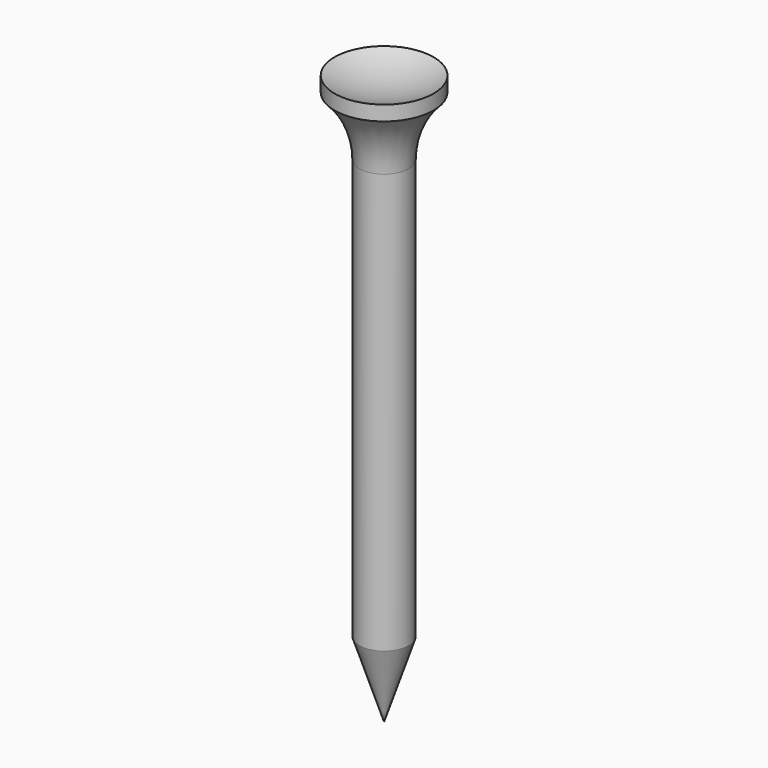
from build123d import *


with BuildPart() as f1:
    # F0 (on Front) → F1 (revolve)
    with BuildSketch(Plane.XZ):
        with BuildLine():
            Line((0, 71.639064), (0, 71.12))
            Line((0, 71.12), (6.35, 71.12))
            Line((6.35, 71.12), (6.35, 73.025))
            ThreePointArc((6.35, 73.025), (3.249743, 71.989579), (0, 71.639064))
        make_face()
        with BuildLine():
            Line((0, 71.12), (0, 63.5))
            Line((0, 63.5), (3.175, 63.5))
            ThreePointArc((3.175, 63.5), (4.0005, 67.6275), (6.35, 71.12))
            Line((6.35, 71.12), (0, 71.12))
        make_face()
        Polygon((0, 63.5), (0, 0), (3.175, 9.651164), (3.175, 63.5), align=None)
    revolve(axis=Axis((0, 0, 71.379532), (0, 0, 1)))


solid = f1.part
